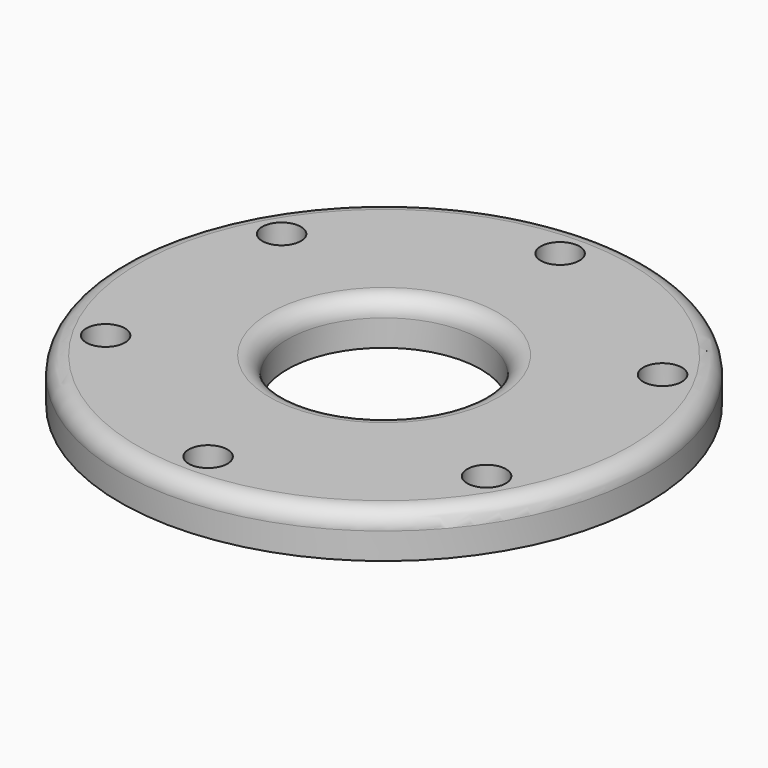
from build123d import *

# Parameters (mm, degrees)
F0_R     = 30
F0_R_2   = 2.2
F0_R_3   = 11
F1_DEPTH = 5
F2_R     = 2
F3_R     = 2


with BuildPart() as f1:
    # F0 (on Top) → F1 (new body)
    with BuildSketch(Plane.XY):
        Circle(F0_R)
        with Locations((-21.650635, -12.5)):
            Circle(F0_R_2, mode=Mode.SUBTRACT)
        with Locations((0, -25)):
            Circle(F0_R_2, mode=Mode.SUBTRACT)
        with Locations((21.650635, -12.5)):
            Circle(F0_R_2, mode=Mode.SUBTRACT)
        with Locations((-21.650635, 12.5)):
            Circle(F0_R_2, mode=Mode.SUBTRACT)
        Circle(F0_R_3, mode=Mode.SUBTRACT)
        with Locations((21.650635, 12.5)):
            Circle(F0_R_2, mode=Mode.SUBTRACT)
        with Locations((0, 25)):
            Circle(F0_R_2, mode=Mode.SUBTRACT)
    extrude(amount=F1_DEPTH)

    # F2
    f2_edges = [f1.edges().sort_by_distance(p)[0] for p in [
        (-30, 0, 5),
    ]]
    fillet(f2_edges, radius=F2_R)

    # F3
    f3_edges = [f1.edges().sort_by_distance(p)[0] for p in [
        (-11, 0, 5),
    ]]
    fillet(f3_edges, radius=F3_R)


solid = f1.part
